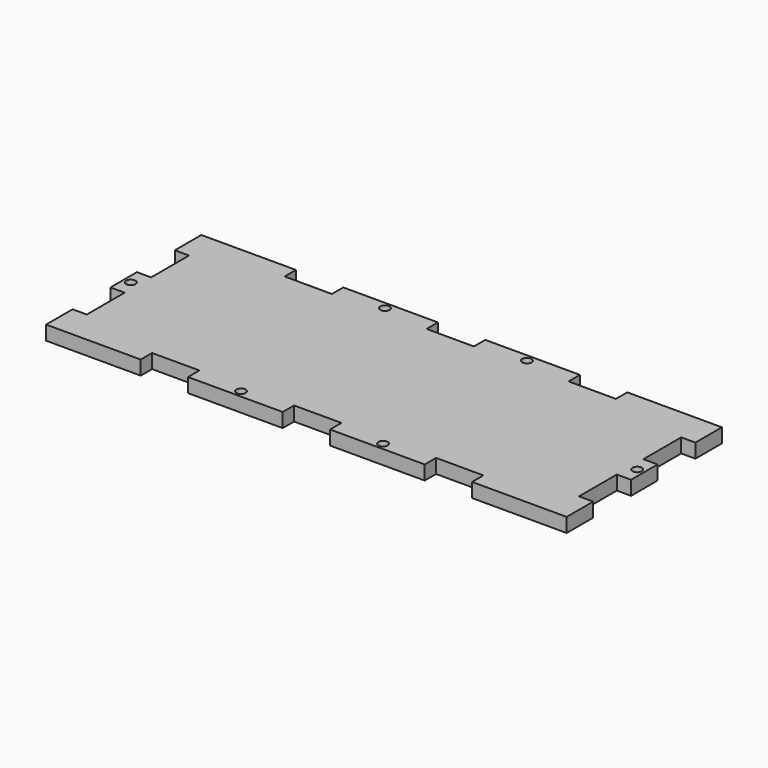
from build123d import *

# Parameters (mm, degrees)
F0_R     = 1
F1_DEPTH = 3


with BuildPart() as f1:
    # F0 (on Top) → F1 (new body)
    with BuildSketch(Plane.XY):
        Polygon((0, 7), (0, 0), (20, 0), (20, 3), (30, 3), (30, 0), (50, 0), (50, 3), (55, 3), (60, 3), (60, 0), (80, 0), (80, 3), (90, 3), (90, 0), (110, 0), (110, 7), (107, 7), (107, 17), (110, 17), (110, 24), (107, 24), (107, 34), (110, 34), (110, 41), (90, 41), (90, 38), (80, 38), (80, 41), (60, 41), (60, 38), (55, 38), (50, 38), (50, 41), (30, 41), (30, 38), (20, 38), (20, 41), (0, 41), (0, 34), (3, 34), (3, 24), (0, 24), (0, 17), (3, 17), (3, 7), align=None)
        with Locations((40, 1.5)):
            Circle(F0_R, mode=Mode.SUBTRACT)
        with Locations((70, 1.5)):
            Circle(F0_R, mode=Mode.SUBTRACT)
        with Locations((1.5, 20.5)):
            Circle(F0_R, mode=Mode.SUBTRACT)
        with Locations((40, 39.5)):
            Circle(F0_R, mode=Mode.SUBTRACT)
        with Locations((108.5, 20.5)):
            Circle(F0_R, mode=Mode.SUBTRACT)
        with Locations((70, 39.5)):
            Circle(F0_R, mode=Mode.SUBTRACT)
    extrude(amount=F1_DEPTH)


solid = f1.part
